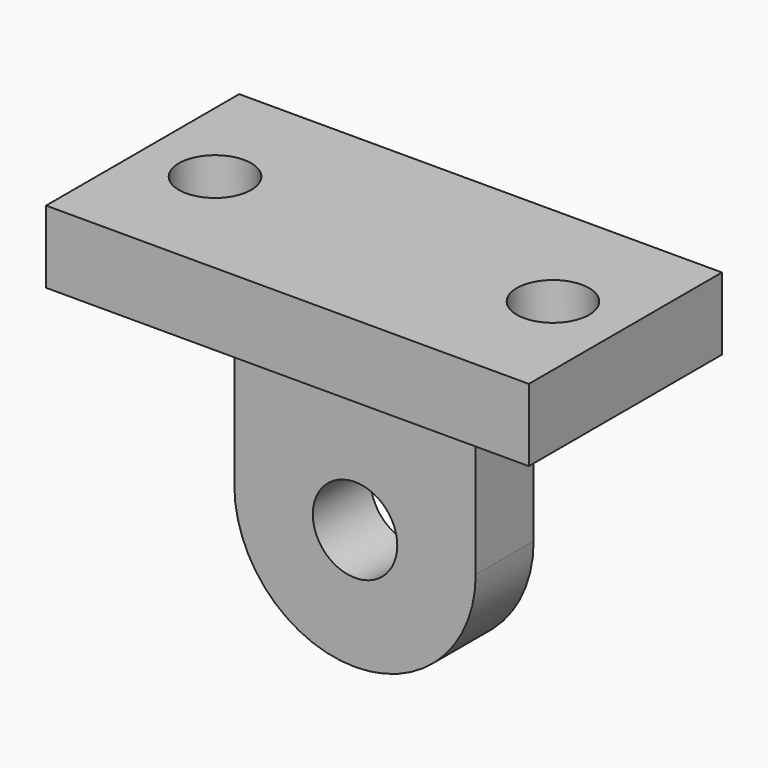
from build123d import *

# Parameters (mm, degrees)
F1_DEPTH = 5
F2_DEPTH = 1.5
F3_R     = 1.5
F4_DEPTH = 3.001


with BuildPart() as f1:
    # F0 (on Front) → F1 (new body, symmetric)
    with BuildSketch(Plane.XZ):
        Polygon((5, -1.5), (10, -1.5), (10, 1.5), (-10, 1.5), (-10, -1.5), (-5, -1.5), (0, -1.5), align=None)
    extrude(amount=F1_DEPTH, both=True)

    # F0 (on Front) → F2 (join, symmetric)
    with BuildSketch(Plane.XZ):
        Polygon((5, -1.5), (10, -1.5), (10, 1.5), (-10, 1.5), (-10, -1.5), (-5, -1.5), (0, -1.5), align=None)
        with BuildLine():
            Line((5, -8.5), (5, -1.5))
            Line((5, -1.5), (0, -1.5))
            Line((0, -1.5), (-5, -1.5))
            Line((-5, -1.5), (-5, -8.5))
            Line((-5, -8.5), (-1.75, -8.5))
            ThreePointArc((-1.75, -8.5), (0, -6.75), (1.75, -8.5))
            Line((1.75, -8.5), (5, -8.5))
        make_face()
        with BuildLine():
            ThreePointArc((-5, -8.5), (0, -13.5), (5, -8.5))
            Line((5, -8.5), (1.75, -8.5))
            ThreePointArc((1.75, -8.5), (0, -10.25), (-1.75, -8.5))
            Line((-1.75, -8.5), (-5, -8.5))
        make_face()
    extrude(amount=F2_DEPTH, both=True)

    # F3 (on face) → F4 (cut, through all)
    with BuildSketch(Plane(origin=(0, 0, -1.5), x_dir=(1, 0, 0), z_dir=(0, 0, -1))):
        with Locations((-7, 0)):
            Circle(F3_R)
        with Locations((7, 0)):
            Circle(F3_R)
    extrude(amount=-F4_DEPTH, mode=Mode.SUBTRACT)


solid = f1.part
